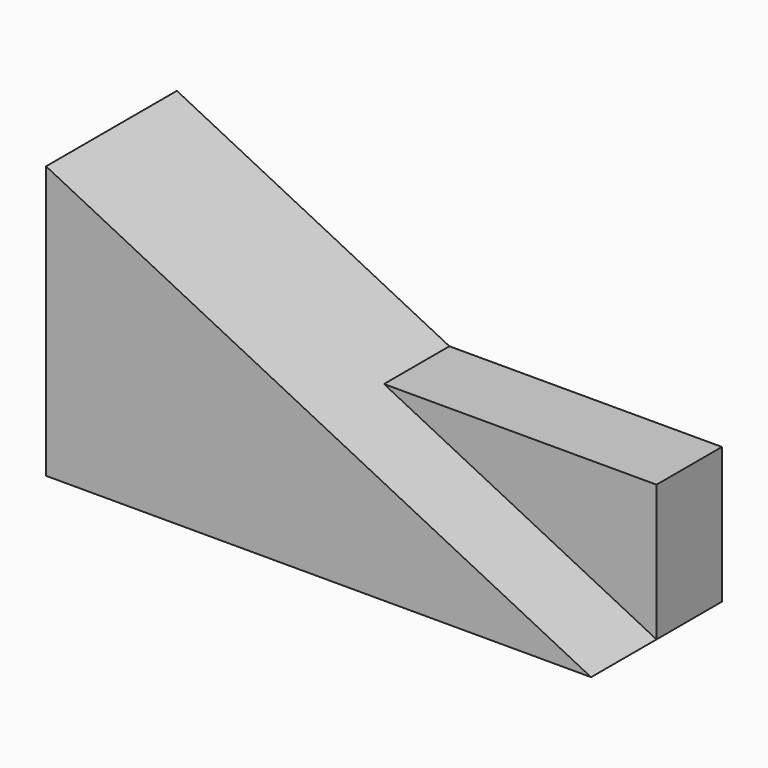
from build123d import *

# Parameters (mm, degrees)
F1_DEPTH = 38.1
F2_DEPTH = 19.05


with BuildPart() as f1:
    # F0 (on Front) → F1 (new body)
    with BuildSketch(Plane.XZ):
        Polygon((-58.544917, 38.870327), (-58.544917, -24.629673), (68.455083, -24.629673), (4.955083, 7.120327), align=None)
    extrude(amount=F1_DEPTH)

    # F0 (on Front) → F2 (join)
    with BuildSketch(Plane.XZ):
        Polygon((-58.544917, 38.870327), (-58.544917, -24.629673), (68.455083, -24.629673), (4.955083, 7.120327), align=None)
        Polygon((4.955083, 7.120327), (68.455083, -24.629673), (68.455083, 7.120327), align=None)
    extrude(amount=F2_DEPTH)


solid = f1.part
